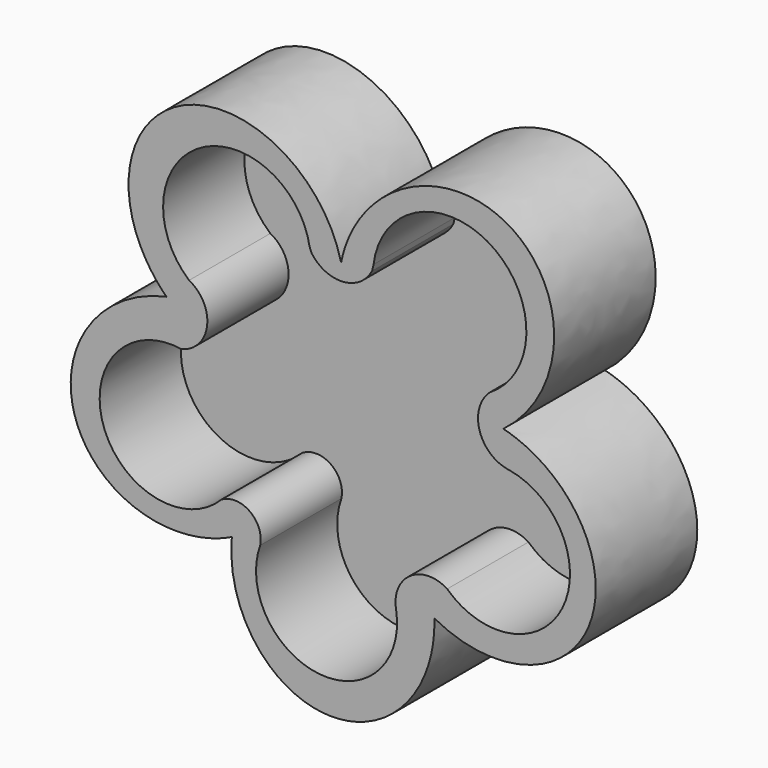
from build123d import *

# Parameters (mm, degrees)
F1_DEPTH = 63.5
F2_DEPTH = 12.7


with BuildPart() as f1:
    # F0 (on Front) → F1 (new body)
    with BuildSketch(Plane.XZ):
        with BuildLine():
            add(Edge.make_bspline(
                [(47.0330939738, -77.388318827), (104.9548567184, -108.9780859787), (125.0193419888, -53.9900643065), (145.0838272593, 0.9979573658), (81.5732273709, 17.2711542769)],
                knots=[1.5370350807, 1.5370350807, 1.5370350807, 3.2475574975, 3.2475574975, 4.9580799143, 4.9580799143, 4.9580799143], degree=2, weights=[1, 0.6560213871, 1, 0.6560213871, 1]))
            add(Edge.make_bspline(
                [(81.5732273709, 17.2711542769), (151.1823379992, 69.2064077407), (83.8745025029, 108.0130325106), (16.5666670067, 146.8196572806), (0.4193187996, 64.0607925905)],
                knots=[1.3473643039, 1.3473643039, 1.3473643039, 3.3265630833, 3.3265630833, 5.3057618627, 5.3057618627, 5.3057618627], degree=2, weights=[1, 0.5490247372, 1, 0.5490247372, 1]))
            add(Edge.make_bspline(
                [(0.4193187996, 64.0607925905), (-17.3464270668, 138.1699099709), (-80.3424839912, 106.8429059524), (-143.3385409157, 75.5159019339), (-86.9510427762, 20.612808672)],
                knots=[1.000050522, 1.000050522, 1.000050522, 2.8824038277, 2.8824038277, 4.7647571334, 4.7647571334, 4.7647571334], degree=2, weights=[1, 0.5888374014, 1, 0.5888374014, 1]))
            add(Edge.make_bspline(
                [(-86.9510427762, 20.612808672), (-151.3681852826, 7.2341555536), (-132.4104660975, -47.9757683736), (-113.4527469124, -103.1856923009), (-54.2703760726, -74.5619908376)],
                knots=[1.4453554045, 1.4453554045, 1.4453554045, 3.154658547, 3.154658547, 4.8639616894, 4.8639616894, 4.8639616894], degree=2, weights=[1, 0.6564813841, 1, 0.6564813841, 1]))
            add(Edge.make_bspline(
                [(-54.2703760726, -74.5619908376), (-59.9311954498, -135.8611655062), (-5.4002637831, -137.3825576005), (49.1306678835, -138.9039496949), (47.0330939738, -77.388318827)],
                knots=[1.5041724461, 1.5041724461, 1.5041724461, 3.1461664548, 3.1461664548, 4.7881604636, 4.7881604636, 4.7881604636], degree=2, weights=[1, 0.6814919128, 1, 0.6814919128, 1]))
        make_face()
        with BuildLine():
            ThreePointArc((-59.5768904, -59.8627726672), (-118.5784837355, -46.2183685865), (-79.4476751054, 0))
            ThreePointArc((-79.4476751054, 0), (-66.6136114554, 14.4427300345), (-75.6182731694, 31.5372235351))
            ThreePointArc((-75.6182731694, 31.5372235351), (-70.0034594996, 91.7481112907), (-15.3374393064, 65.8926791127))
            Line((-15.3374393064, 65.8926791127), (-14.3989708794, 63.5003816929))
            ThreePointArc((-14.3989708794, 63.5003816929), (1.3284968216, 55.9420144716), (15.9380778827, 65.4836231702))
            Line((15.9380778827, 65.4836231702), (16.642719216, 68.5318047865))
            ThreePointArc((16.642719216, 68.5318047865), (75.509793142, 96.083716897), (74.8020410538, 31.091876328))
            ThreePointArc((74.8020410538, 31.091876328), (69.551965875, 13.0300896688), (83.3337587702, 0.2295579885))
            ThreePointArc((83.3337587702, 0.2295579885), (84.0734228607, 0.1223536124), (84.8107323877, 0))
            ThreePointArc((84.8107323877, 0), (111.0416642448, -52.2247194585), (53.4921296271, -62.3998938497))
            ThreePointArc((53.4921296271, -62.3998938497), (34.8684922303, -62.7518038524), (27.967902018, -80.0534097102))
            ThreePointArc((27.967902018, -80.0534097102), (-10.1891108829, -120.6940517455), (-40.0739007308, -73.6353782165))
            ThreePointArc((-40.0739007308, -73.6353782165), (-45.2904168041, -60.3272227565), (-59.5768904, -59.8627726672))
        make_face(mode=Mode.SUBTRACT)
    extrude(amount=F1_DEPTH)

    # F0 (on Front) → F2 (join)
    with BuildSketch(Plane.XZ):
        with BuildLine():
            ThreePointArc((-75.6182731694, 31.5372235351), (-66.6136114554, 14.4427300345), (-79.4476751054, 0))
            ThreePointArc((-79.4476751054, 0), (-118.5784837355, -46.2183685865), (-59.5768904, -59.8627726672))
            ThreePointArc((-59.5768904, -59.8627726672), (-45.2904168041, -60.3272227565), (-40.0739007308, -73.6353782165))
            ThreePointArc((-40.0739007308, -73.6353782165), (-10.1891108829, -120.6940517455), (27.967902018, -80.0534097102))
            ThreePointArc((27.967902018, -80.0534097102), (34.8684922303, -62.7518038524), (53.4921296271, -62.3998938497))
            ThreePointArc((53.4921296271, -62.3998938497), (111.0416642448, -52.2247194585), (84.8107323877, 0))
            ThreePointArc((84.8107323877, 0), (84.0698507598, 0.099370754), (83.3337587702, 0.2295579885))
            ThreePointArc((83.3337587702, 0.2295579885), (69.551965875, 13.0300896688), (74.8020410538, 31.091876328))
            ThreePointArc((74.8020410538, 31.091876328), (75.509793142, 96.083716897), (16.642719216, 68.5318047865))
            Line((16.642719216, 68.5318047865), (15.9380778827, 65.4836231702))
            ThreePointArc((15.9380778827, 65.4836231702), (1.3284968216, 55.9420144716), (-14.3989708794, 63.5003816929))
            Line((-14.3989708794, 63.5003816929), (-15.3374393064, 65.8926791127))
            ThreePointArc((-15.3374393064, 65.8926791127), (-70.0034594996, 91.7481112907), (-75.6182731694, 31.5372235351))
        make_face()
    extrude(amount=F2_DEPTH)


solid = f1.part
